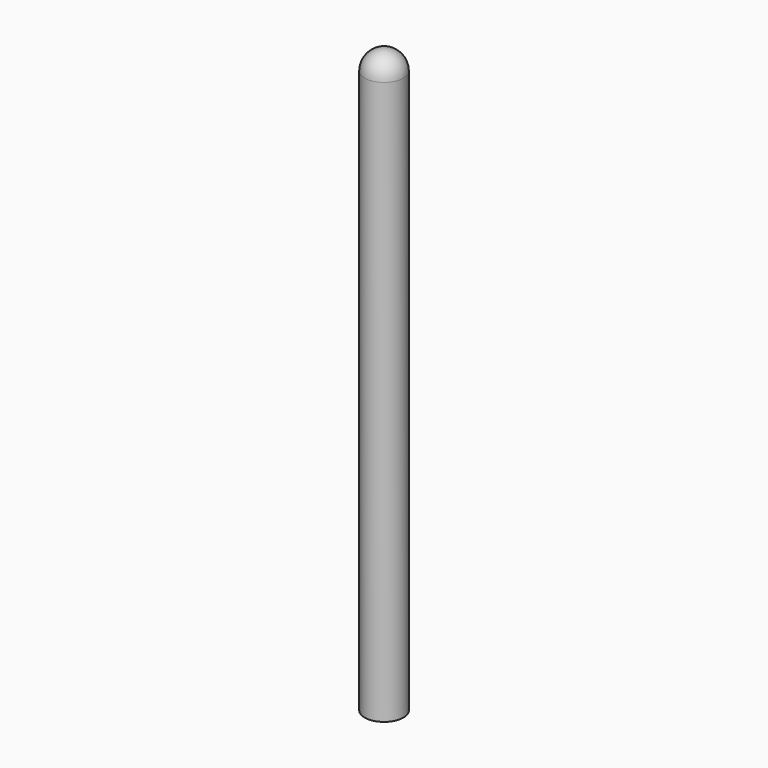
from build123d import *

# Parameters (mm, degrees)
F0_R     = 2.5
F1_DEPTH = 75
F2_R     = 2.5
F3_R     = 1.075
F4_DEPTH = 15
F5_R     = 0.5


with BuildPart() as f1:
    # F0 (on Top) → F1 (new body)
    with BuildSketch(Plane.XY):
        Circle(F0_R)
    extrude(amount=F1_DEPTH)

    # F2
    f2_edges = [f1.edges().sort_by_distance(p)[0] for p in [
        (-2.5, 0, 75),
    ]]
    fillet(f2_edges, radius=F2_R)

    # F3 (on face) → F4 (cut)
    with BuildSketch(Plane(origin=(0, 0, 0), x_dir=(1, 0, 0), z_dir=(0, 0, -1))):
        Circle(F3_R)
    extrude(amount=-F4_DEPTH, mode=Mode.SUBTRACT)

    # F5
    f5_edges = [f1.edges().sort_by_distance(p)[0] for p in [
        (-1.075, 0, 0),
        (1.075, 0, 7.5),
        (-1.075, 0, 15),
    ]]
    fillet(f5_edges, radius=F5_R)


solid = f1.part
